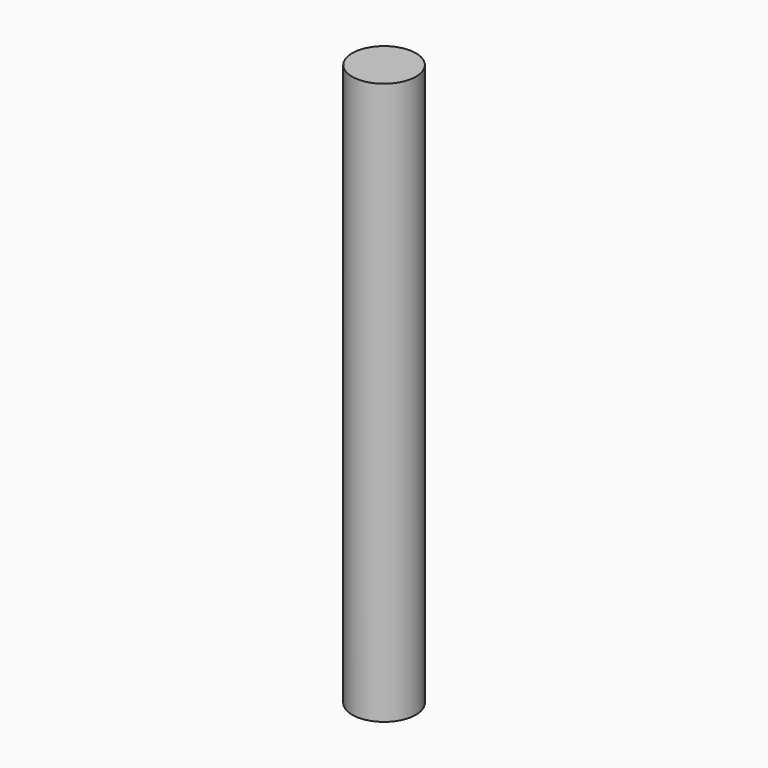
from build123d import *

# Parameters (mm, degrees)
CYLINDER_R     = 0.8509
CYLINDER_DEPTH = 15


with BuildPart() as part:
    # Cylinder → Cylinder (new body)
    with BuildSketch(Plane.XY.offset(-2.5)):
        Circle(CYLINDER_R)
    extrude(amount=CYLINDER_DEPTH)


solid = part.part
